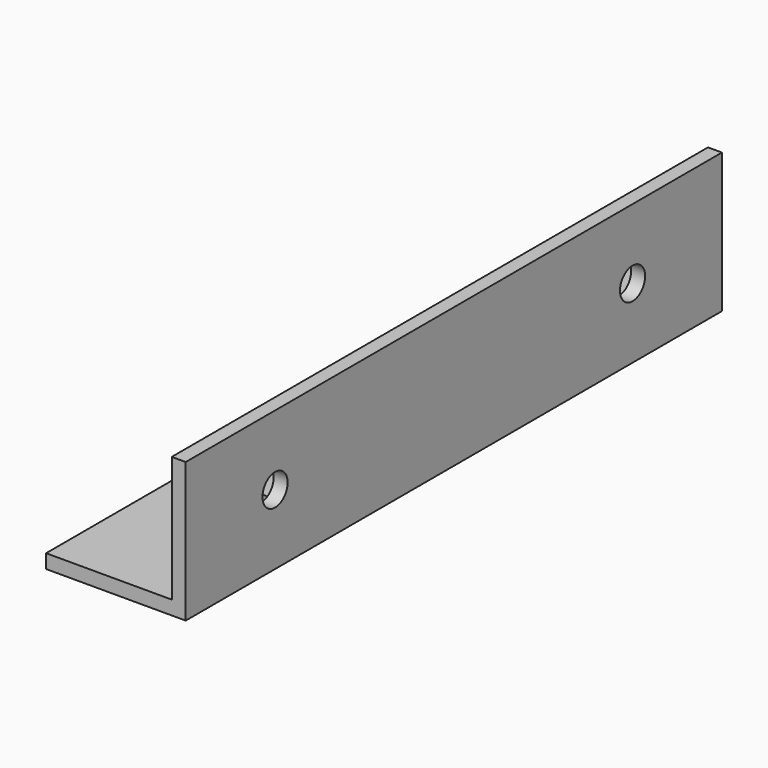
from build123d import *

# Parameters (mm, degrees)
F0_W     = 15.875
F0_H     = 1.5875
F1_DEPTH = 38.1
F2_W     = 1.5875
F2_H     = 76.2
F3_DEPTH = 14.2875
F4_R     = 1.785937
F5_DEPTH = 1.5885
F6_R     = 1.785938
F7_DEPTH = 1.5885


with BuildPart() as f1:
    # F0 (on Front) → F1 (new body, symmetric)
    with BuildSketch(Plane.XZ):
        Rectangle(F0_W, F0_H)
    extrude(amount=F1_DEPTH, both=True)

    # F2 (on face) → F3 (join)
    with BuildSketch(Plane.XY.offset(0.79375)):
        with Locations((7.14375, 0)):
            Rectangle(F2_W, F2_H)
    extrude(amount=F3_DEPTH)

    # F4 (on face) → F5 (cut, through all)
    with BuildSketch(Plane(origin=(6.35, 0, 0), x_dir=(0, -1, 0), z_dir=(-1, 0, 0))):
        with Locations((-25.4, 7.14375)):
            Circle(F4_R)
        with Locations((25.4, 7.14375)):
            Circle(F4_R)
    extrude(amount=-F5_DEPTH, mode=Mode.SUBTRACT)

    # F6 (on face) → F7 (cut, through all)
    with BuildSketch(Plane.XY.offset(0.79375)):
        with Locations((0, 19.05)):
            Circle(F6_R)
        with Locations((0, -19.05)):
            Circle(F6_R)
    extrude(amount=-F7_DEPTH, mode=Mode.SUBTRACT)


solid = f1.part
